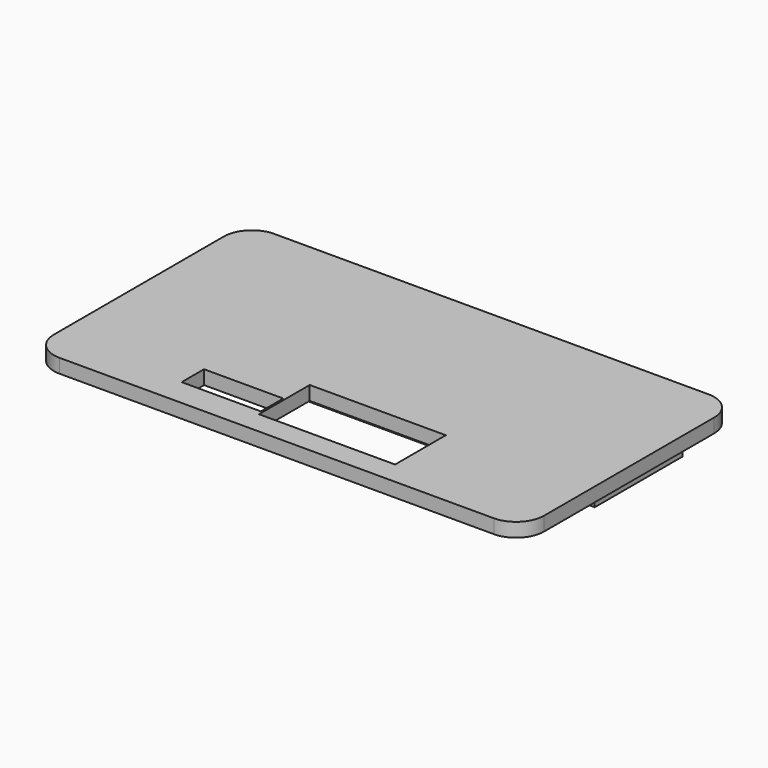
from build123d import *

# Parameters (mm, degrees)
F0_W     = 52.6
F0_H     = 28.8
F0_W_2   = 49.5
F0_H_2   = 11.8
F0_W_3   = 48
F0_H_3   = 2.52
F0_W_4   = 46.5
F0_H_4   = 8.8
F0_W_5   = 8.5
F0_H_5   = 3
F0_W_6   = 46.4
F0_H_6   = 0.92
F1_DEPTH = 1.5
F2_DEPTH = 1.8
F3_R     = 3


with BuildPart() as f1:
    # F0 (on Top) → F1 (new body)
    with BuildSketch(Plane.XY):
        with Locations((-2.8558062509, 6.2837967607)):
            Rectangle(F0_W, F0_H)
        Polygon((-26.6058062509, -3.4749299184), (-22.0043773293, -3.4749299184), (-22.0043773293, 1.2337967607), (20.8956226707, 1.2337967607), (20.8956226707, -4.7466191463), (20.8941937491, -4.7466191463), (20.8941937491, -5.2662032393), (20.8941937491, -5.8827909378), (20.8941937491, -6.0662032393), (-26.6058062509, -6.0662032393), (-26.6058062509, -5.2662032393), align=None, mode=Mode.SUBTRACT)
        with Locations((-2.9058062509, 9.5737967607)):
            Rectangle(F0_W_2, F0_H_2, mode=Mode.SUBTRACT)
        with Locations((-2.6558062509, 17.6337967607)):
            Rectangle(F0_W_3, F0_H_3, mode=Mode.SUBTRACT)
        with Locations((-2.9058062509, 9.5737967607)):
            Rectangle(F0_W_2, F0_H_2)
        with Locations((-2.9058062509, 9.5737967607)):
            Rectangle(F0_W_4, F0_H_4, mode=Mode.SUBTRACT)
        with Locations((-2.9058062509, 9.5737967607)):
            Rectangle(F0_W_4, F0_H_4)
        Polygon((-22.0043773293, 1.2337967607), (-22.0043773293, -3.4749299184), (-26.6058062509, -3.4749299184), (-26.6058062509, -5.2662032393), (-26.6058062509, -6.0662032393), (20.8941937491, -6.0662032393), (20.8941937491, -5.8827909378), (20.8941937491, -5.2662032393), (20.8941937491, -4.7466191463), (20.8956226707, -4.7466191463), (20.8956226707, 1.2337967607), align=None)
        with Locations((-11.1558062509, -3.6662032393)):
            Rectangle(F0_W_5, F0_H_5, mode=Mode.SUBTRACT)
        Polygon((7.8941937491, 1.1337967607), (7.8941937491, -5.2662032393), (7.8941937491, -5.3662032393), (20.7941937491, -5.3662032393), (20.7941937491, -5.9662032393), (-26.5058062509, -5.9662032393), (-26.5058062509, -5.3662032393), (-6.7058062509, -5.3662032393), (-6.7058062509, -5.2662032393), (-6.7058062509, 1.1337967607), align=None, mode=Mode.SUBTRACT)
        Polygon((-22.0043773293, 1.2337967607), (-22.0043773293, -3.4749299184), (-26.6058062509, -3.4749299184), (-26.6058062509, -5.2662032393), (-26.6058062509, -6.0662032393), (20.8941937491, -6.0662032393), (20.8941937491, -5.8827909378), (20.8941937491, -5.2662032393), (20.8941937491, -4.7466191463), (20.8956226707, -4.7466191463), (20.8956226707, 1.2337967607), align=None)
        with Locations((-11.1558062509, -3.6662032393)):
            Rectangle(F0_W_5, F0_H_5, mode=Mode.SUBTRACT)
        Polygon((7.8941937491, 1.1337967607), (7.8941937491, -5.2662032393), (7.8941937491, -5.3662032393), (20.7941937491, -5.3662032393), (20.7941937491, -5.9662032393), (-26.5058062509, -5.9662032393), (-26.5058062509, -5.3662032393), (-6.7058062509, -5.3662032393), (-6.7058062509, -5.2662032393), (-6.7058062509, 1.1337967607), align=None, mode=Mode.SUBTRACT)
        with Locations((-2.6558062509, 17.6337967607)):
            Rectangle(F0_W_3, F0_H_3)
        with Locations((-2.6558062509, 17.6337967607)):
            Rectangle(F0_W_6, F0_H_6, mode=Mode.SUBTRACT)
        with Locations((-2.6558062509, 17.6337967607)):
            Rectangle(F0_W_6, F0_H_6)
        Polygon((20.7941937491, -5.3662032393), (7.8941937491, -5.3662032393), (7.8941937491, -5.6662032393), (-6.7058062509, -5.6662032393), (-6.7058062509, -5.3662032393), (-26.5058062509, -5.3662032393), (-26.5058062509, -5.9662032393), (20.7941937491, -5.9662032393), align=None)
    extrude(amount=F1_DEPTH)

    # F0 (on Top) → F2 (join)
    with BuildSketch(Plane.XY):
        with Locations((-2.9058062509, 9.5737967607)):
            Rectangle(F0_W_2, F0_H_2)
        with Locations((-2.9058062509, 9.5737967607)):
            Rectangle(F0_W_4, F0_H_4, mode=Mode.SUBTRACT)
    extrude(amount=-F2_DEPTH)

    # F3
    f3_edges = [f1.edges().sort_by_distance(p)[0] for p in [
        (23.444194, -8.116203, 0.75),
        (23.444194, 20.683797, 0.75),
        (-29.155806, 20.683797, 0.75),
        (-29.155806, -8.116203, 0.75),
    ]]
    fillet(f3_edges, radius=F3_R)


solid = f1.part
